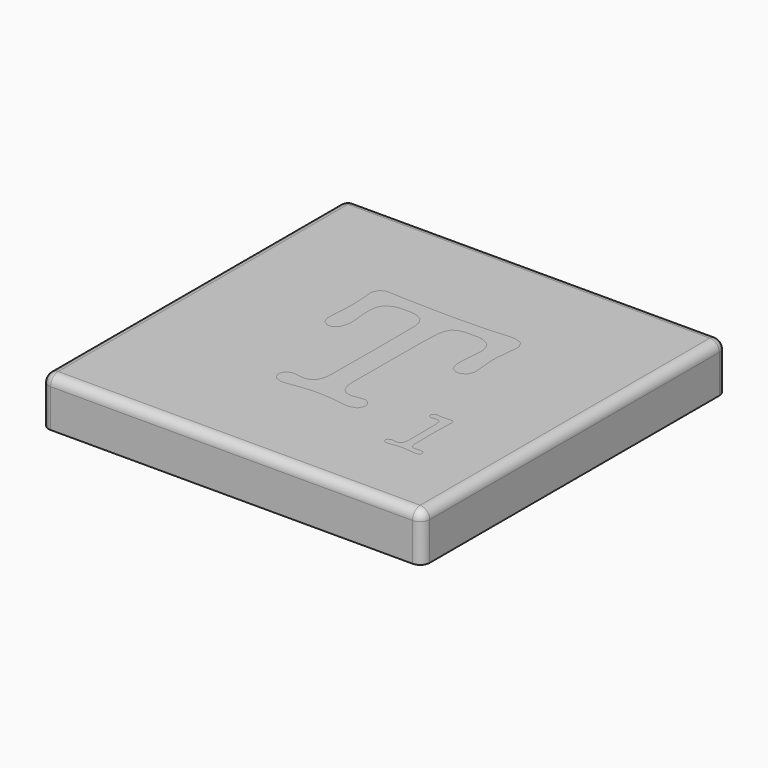
from build123d import *

# Parameters (mm, degrees)
F0_W     = 40
F0_H     = 40
F1_DEPTH = 5
F2_R     = 1
F5_DEPTH = 3


with BuildPart() as f1:
    # F0 (on Top) → F1 (new body)
    with BuildSketch(Plane.XY):
        Rectangle(F0_W, F0_H)
    extrude(amount=-F1_DEPTH)

    # F2
    f2_edges = [f1.edges().sort_by_distance(p)[0] for p in [
        (0, -20, 0),
        (20, 0, 0),
        (0, 20, 0),
        (-20, 0, 0),
        (-20, 20, -2.5),
        (20, 20, -2.5),
        (-20, -20, -2.5),
        (20, -20, -2.5),
    ]]
    fillet(f2_edges, radius=F2_R)


with BuildPart() as f5:
    # F3 (on Top) + F4 (on Top) → F5 (new body)
    with BuildSketch(Plane.XY):
        Polygon((1.018337, -5.547944), (1.018337, -5.331638), (1.045947, 3.664204), (1.124458, 5.516296), (1.132764, 5.676163), (1.269162, 6.334887), (1.529639, 6.811645), (1.601267, 6.879184), (1.671549, 6.948068), (2.163496, 7.18787), (2.791892, 7.289851), (3.002712, 7.289851), (3.744112, 7.289851), (3.971493, 7.289851), (4.65775, 7.176846), (5.310937, 6.833692), (5.703697, 6.263183), (5.834609, 5.663743), (5.834609, 5.463946), (5.834609, 5.149748), (5.767095, 4.205783), (5.754675, 4.048709), (5.740908, 3.892982), (5.676138, 2.987624), (5.676138, 2.633472), (5.676138, 2.38539), (5.926938, 1.641272), (6.491935, 1.310538), (6.680708, 1.310538), (6.873646, 1.310538), (7.453782, 1.582014), (7.712862, 2.192477), (7.712862, 2.395042), (7.712862, 2.51493), (7.685329, 2.871826), (7.623302, 3.585667), (7.606767, 3.770325), (7.593, 3.912286), (7.52823, 4.704664), (7.52823, 5.014722), (7.52823, 5.305476), (7.5406, 5.443271), (7.661885, 6.720713), (7.672908, 6.839204), (7.683932, 6.959117), (7.73905, 7.575093), (7.73905, 7.819009), (7.73905, 7.871358), (7.73905, 8.075295), (7.408316, 8.685784), (6.664173, 8.955862), (6.416142, 8.955862), (6.037174, 8.955862), (4.903064, 8.891092), (4.72252, 8.877351), (4.519955, 8.86493), (3.684854, 8.818067), (3.172231, 8.797417), (3.002712, 8.797417), (2.618257, 8.789162), (1.143762, 8.758809), (0.414782, 8.745042), (0.172237, 8.745042), (-2.844292, 8.797417), (-3.184652, 8.807069), (-4.405605, 8.838743), (-4.861738, 8.851163), (-5.0133, 8.851163), (-5.239309, 8.86493), (-6.118504, 8.910396), (-6.580149, 8.9297), (-6.733108, 8.9297), (-6.921881, 8.9297), (-7.488276, 8.652739), (-7.739075, 8.028457), (-7.739075, 7.819009), (-7.712888, 7.627442), (-7.650886, 6.862623), (-7.632954, 6.628384), (-7.624699, 6.509842), (-7.580605, 5.59623), (-7.580605, 5.251704), (-7.580605, 5.108397), (-7.60128, 4.67708), (-7.646746, 3.850259), (-7.659141, 3.638042), (-7.668793, 3.497478), (-7.712888, 2.74508), (-7.712888, 2.447417), (-7.712888, 2.220036), (-7.468972, 1.535151), (-6.917766, 1.230605), (-6.733108, 1.230605), (-6.54017, 1.230605), (-5.960034, 1.648155), (-5.700954, 2.586609), (-5.700954, 2.898038), (-5.700954, 3.053766), (-5.724373, 3.519526), (-5.728513, 3.559505), (-5.833237, 4.537888), (-5.838749, 4.577867), (-5.860796, 5.213147), (-5.860796, 5.437759), (-5.860796, 5.640324), (-5.742305, 6.248044), (-5.385384, 6.826834), (-4.790059, 7.174103), (-4.164457, 7.289851), (-3.954983, 7.289851), (-3.135046, 7.289851), (-2.9242, 7.289851), (-2.290318, 7.172731), (-1.686712, 6.819951), (-1.324305, 6.234252), (-1.20302, 5.618277), (-1.20302, 5.411597), (-1.176858, 1.098321), (-1.176858, -1.150645), (-1.20302, -3.479546), (-1.20302, -5.331638), (-1.20302, -5.547944), (-1.285723, -6.199784), (-1.533754, -6.8199), (-1.947164, -7.191959), (-2.381275, -7.315987), (-2.525928, -7.315987), (-3.090951, -7.260869), (-3.161233, -7.249846), (-3.232861, -7.238822), (-3.638042, -7.183704), (-3.796513, -7.183704), (-3.956355, -7.183704), (-4.431792, -7.394524), (-4.642612, -7.869961), (-4.642612, -8.029804), (-4.642612, -8.203438), (-4.35323, -8.724341), (-3.698672, -8.955862), (-3.479571, -8.955862), (-3.293516, -8.955862), (-3.276956, -8.95035), (-3.155721, -8.929675), (-3.108858, -8.929675), (-1.78595, -8.743645), (-1.659153, -8.725713), (-0.456133, -8.638896), (-0.012395, -8.638896), (0.372059, -8.638896), (1.529639, -8.725713), (1.653642, -8.743645), (2.950362, -8.929675), (2.990342, -8.929675), (3.112973, -8.95035), (3.13502, -8.955862), (3.294888, -8.955862), (3.518129, -8.955862), (4.18785, -8.724341), (4.485513, -8.203438), (4.485513, -8.029804), (4.485513, -7.890637), (4.274668, -7.47583), (4.233316, -7.434504), (4.190594, -7.391781), (3.786835, -7.183704), (3.638017, -7.183704), (3.496081, -7.183704), (3.073044, -7.238822), (3.002712, -7.249846), (2.932455, -7.260869), (2.527325, -7.315987), (2.368855, -7.315987), (2.220011, -7.315987), (1.77767, -7.191959), (1.355979, -6.8199), (1.102411, -6.199784), align=None)
    with BuildSketch(Plane.XY):
        Polygon((11.022813, -7.043704), (11.051744, -9.805293), (11.051744, -10.027137), (11.032465, -10.692744), (10.988345, -11.118549), (10.97595, -11.162644), (10.962183, -11.205367), (10.668661, -11.424467), (10.56668, -11.424467), (10.503281, -11.424467), (10.317252, -11.409303), (10.280041, -11.40656), (10.253853, -11.401048), (10.058172, -11.377629), (9.985147, -11.377629), (9.896958, -11.377629), (9.633738, -11.460306), (9.51799, -11.647708), (9.51799, -11.711106), (9.51799, -11.774504), (9.619971, -11.967417), (9.850095, -12.054235), (9.92726, -12.054235), (10.033381, -12.054235), (10.355834, -12.012909), (10.413721, -12.006), (10.514305, -11.990836), (11.184052, -11.92058), (11.441735, -11.92058), (11.71321, -11.92058), (12.527636, -12.007397), (12.661291, -12.025304), (12.68471, -12.028047), (12.888672, -12.044583), (12.965837, -12.044583), (13.044399, -12.044583), (13.280035, -11.960534), (13.386131, -11.773107), (13.386131, -11.711106), (13.386131, -11.647708), (13.270383, -11.460306), (13.014071, -11.377629), (12.928626, -11.377629), (12.648896, -11.396908), (12.614453, -11.401048), (12.578614, -11.405188), (12.378792, -11.424467), (12.300255, -11.424467), (12.21895, -11.424467), (11.975034, -11.259113), (11.863401, -10.876005), (11.862029, -10.76714), (11.862029, -10.593506), (11.845494, -10.076743), (11.84275, -9.977531), (11.839982, -9.894854), (11.833098, -9.186549), (11.833098, -8.110275), (11.833098, -7.689981), (11.871681, -6.431843), (11.879936, -6.262323), (11.881333, -6.227906), (11.889588, -6.090111), (11.889588, -6.033596), (11.889588, -5.963315), (11.857889, -5.752469), (11.852377, -5.738702), (11.844122, -5.718027), (11.658092, -5.614674), (11.594694, -5.614674), (11.516157, -5.614674), (11.280496, -5.638093), (11.232261, -5.643579), (11.199191, -5.646373), (10.853319, -5.662883), (10.727919, -5.662883), (10.643845, -5.662883), (10.391674, -5.642208), (10.351694, -5.638093), (10.310368, -5.633953), (10.082988, -5.614674), (9.994799, -5.614674), (9.90661, -5.614674), (9.642018, -5.864077), (9.642018, -5.948151), (9.642018, -6.010152), (9.734347, -6.197604), (9.943796, -6.281627), (10.014077, -6.281627), (10.074707, -6.281627), (10.259365, -6.260952), (10.289693, -6.258209), (10.32002, -6.254068), (10.496398, -6.233393), (10.56668, -6.233393), (10.652125, -6.233393), (10.908437, -6.368445), (10.923601, -6.396029), (10.938739, -6.422216), (11.021441, -6.962373), align=None)
    extrude(amount=-F5_DEPTH)


solid = Compound([f1.part, f5.part])
